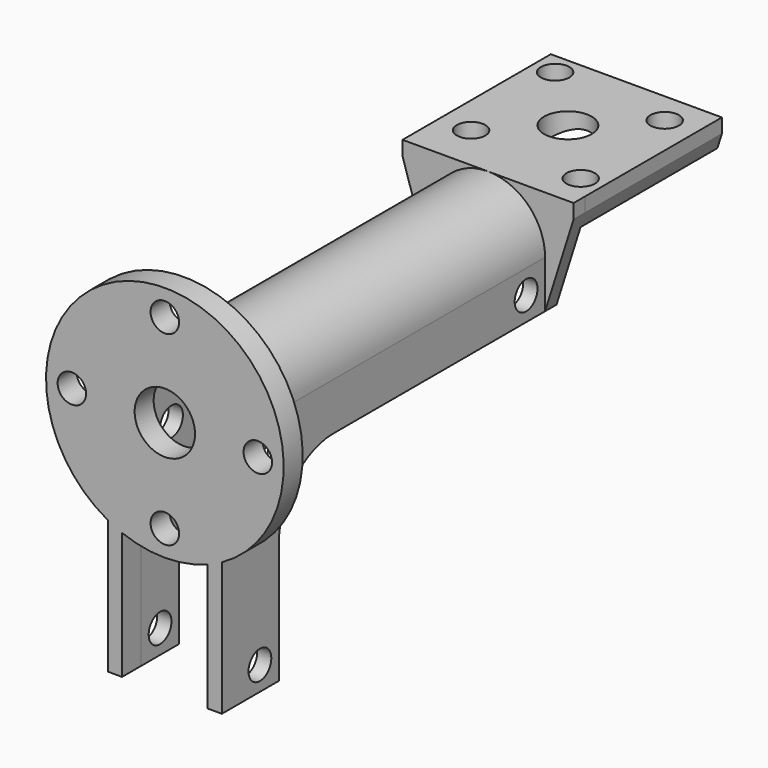
from build123d import *

# Parameters (mm, degrees)
SKETCH_R        = 1.5
SKETCH_R_2      = 2.5
PAD_DEPTH       = 3
PAD001_DEPTH    = 1.5
PAD002_DEPTH    = 40
SKETCH005_R     = 1.5
POCKET_DEPTH    = 13
POCKET001_DEPTH = 25
POCKET002_DEPTH = 25
SKETCH007_R     = 3.175
SKETCH007_R_2   = 1.5
PAD003_DEPTH    = 2.5


with BuildPart() as part:
    # Sketch → Pad (new body)
    with BuildSketch(Plane.XY):
        Polygon((0, 0), (18, 0), (18, 18), (0, 18), (0, 10.5), (0, 7.5), align=None)
        with Locations((2.2824855787, 15.7175144213)):
            Circle(SKETCH_R, mode=Mode.SUBTRACT)
        with Locations((14.6568542495, 14.6568542495)):
            Circle(SKETCH_R, mode=Mode.SUBTRACT)
        with Locations((3.3431457505, 3.3431457505)):
            Circle(SKETCH_R, mode=Mode.SUBTRACT)
        with Locations((15.7175144213, 2.2824855787)):
            Circle(SKETCH_R, mode=Mode.SUBTRACT)
        with Locations((9, 9)):
            Circle(SKETCH_R_2, mode=Mode.SUBTRACT)
    extrude(amount=PAD_DEPTH)

    # Sketch002 → Pad001 (new body)
    with BuildSketch(Plane.XZ):
        Polygon((0, 3), (18, 3), (17.9999999631, -7.9988470638), (0, -8), align=None)
    extrude(amount=PAD001_DEPTH)

    # Sketch001 → Pad002 (new body)
    with BuildSketch(Plane.XZ.offset(1.5)):
        with BuildLine():
            ThreePointArc((13.5, -3), (9, 1.5), (4.5, -3))
            Line((4.5, -3), (4.5001284117, -27.9999999997))
            Line((4.5001284117, -27.9999999997), (3.0001284117, -27.9999999997))
            Line((3.0001284117, -27.9999999997), (3, -3))
            ThreePointArc((15, -3), (9, 3), (3, -3))
            Line((15, -3), (15.0001284117, -27.9999999997))
            Line((15.0001284117, -27.9999999997), (13.5001284117, -27.9999999997))
            Line((13.5001284117, -27.9999999997), (13.5, -3))
        make_face()
    extrude(amount=PAD002_DEPTH)

    # Sketch005 → Pocket (cut)
    with BuildSketch(Plane(origin=(14.9999845902, 0, 7.70469e-05), x_dir=(0, 1, 0), z_dir=(1, 0, 5.1365e-06))):
        with Locations((-4, -5.500077047)):
            Circle(SKETCH005_R)
        with Locations((-37.5, -7.000077047)):
            Circle(SKETCH005_R)
        with Locations((-39, -25.500077047)):
            Circle(SKETCH005_R)
        with BuildLine():
            Line((-36.5, -28.000077047), (-36.4999999999, -15.1369541066))
            ThreePointArc((-29.3631590976, -8.000077047), (-34.4096804325, -10.0904221815), (-36.4999999999, -15.1369541066))
            Line((-29.3631590976, -8.000077047), (-1.4999991941, -8.000077047))
            Line((-1.5, -28.000077047), (-1.4999991941, -8.000077047))
            Line((-36.5, -28.000077047), (-1.5, -28.000077047))
        make_face()
    extrude(amount=-POCKET_DEPTH, mode=Mode.SUBTRACT)

    # Sketch006 → Pocket001 (cut)
    with BuildSketch(Plane.XZ.offset(1.5)):
        Polygon((0, 1.5), (2.9999999938, -7.999807844), (0, -8), align=None)
        Polygon((17.9999999631, -7.9988470638), (14.9999999692, -7.9990392199), (17.999999995, 1.5), align=None)
    extrude(amount=-POCKET001_DEPTH, mode=Mode.SUBTRACT)

    # Sketch008 → Pocket002 (cut)
    with BuildSketch(Plane.XZ.offset(1.5)):
        with BuildLine():
            Line((4.5000000092, -2.9997117644), (4.5000256809, -7.9997117643))
            Line((4.5000256809, -7.9997117643), (13.5000256779, -7.9991352962))
            Line((13.4999999169, -2.9991352963), (13.5000256779, -7.9991352962))
            ThreePointArc((13.4999999169, -2.9991352963), (8.999711766, 1.4999999908), (4.5000000092, -2.9997117644))
        make_face()
    extrude(amount=-POCKET002_DEPTH, mode=Mode.SUBTRACT)

    # Sketch007 → Pad003 (new body)
    with BuildSketch(Plane.XZ.offset(41.5)):
        with BuildLine():
            ThreePointArc((15.0000563256, -13.9658252808), (8.9999357942, 9.4999999998), (3.0000563259, -13.9658869184))
            Line((3.0000563259, -13.9658869184), (3.0001284117, -27.9999999997))
            Line((3.0001284117, -27.9999999997), (4.5001284117, -27.9999999997))
            Line((4.5000599011, -14.6619269037), (4.5001284117, -27.9999999997))
            ThreePointArc((4.5000599011, -14.6619269037), (9.0000642058, -15.4999999998), (13.5000599009, -14.6618806755))
            Line((13.5000599009, -14.6618806755), (13.5001284117, -27.9999999997))
            Line((13.5001284117, -27.9999999997), (15.0001284117, -27.9999999997))
            Line((15.0000563256, -13.9658252808), (15.0001284117, -27.9999999997))
        make_face()
        with Locations((9, -3)):
            Circle(SKETCH007_R, mode=Mode.SUBTRACT)
        with Locations((-0.779, -3)):
            Circle(SKETCH007_R_2, mode=Mode.SUBTRACT)
        with Locations((9, -12.779)):
            Circle(SKETCH007_R_2, mode=Mode.SUBTRACT)
        with Locations((9, 6.779)):
            Circle(SKETCH007_R_2, mode=Mode.SUBTRACT)
        with Locations((18.779, -3)):
            Circle(SKETCH007_R_2, mode=Mode.SUBTRACT)
    extrude(amount=PAD003_DEPTH)


solid = part.part
